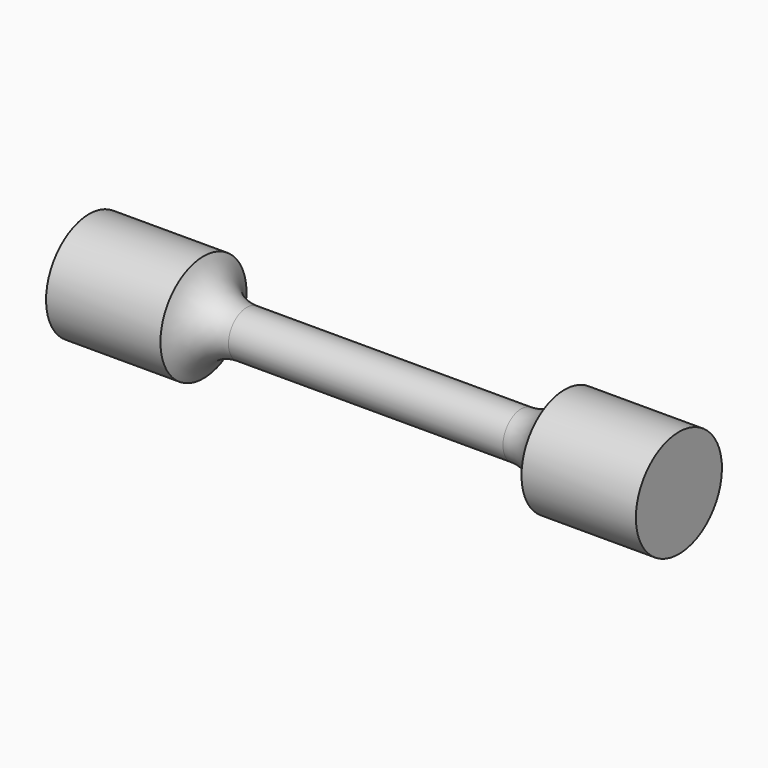
from build123d import *


with BuildPart() as f1:
    # F0 (on Front) → F1 (revolve)
    with BuildSketch(Plane.XZ):
        with BuildLine():
            Line((-25.783784, 0), (0, 0))
            Line((0, 0), (0, 2))
            Line((0, 2), (-12, 2))
            ThreePointArc((-12, 2), (-14.324953, 2.745066), (-15.783784, 4.702702))
            Line((-15.783784, 4.702702), (-25.783784, 4.702702))
            Line((-25.783784, 4.702702), (-25.783784, 0))
        make_face()
        with BuildLine():
            Line((0, 2), (0, 0))
            Line((0, 0), (25.783784, 0))
            Line((25.783784, 0), (25.783784, 4.702702))
            Line((25.783784, 4.702702), (15.783784, 4.702702))
            ThreePointArc((15.783784, 4.702702), (14.324953, 2.745066), (12, 2))
            Line((12, 2), (0, 2))
        make_face()
    revolve(axis=Axis((0, 0, 0), (1, 0, 0)))


solid = f1.part
